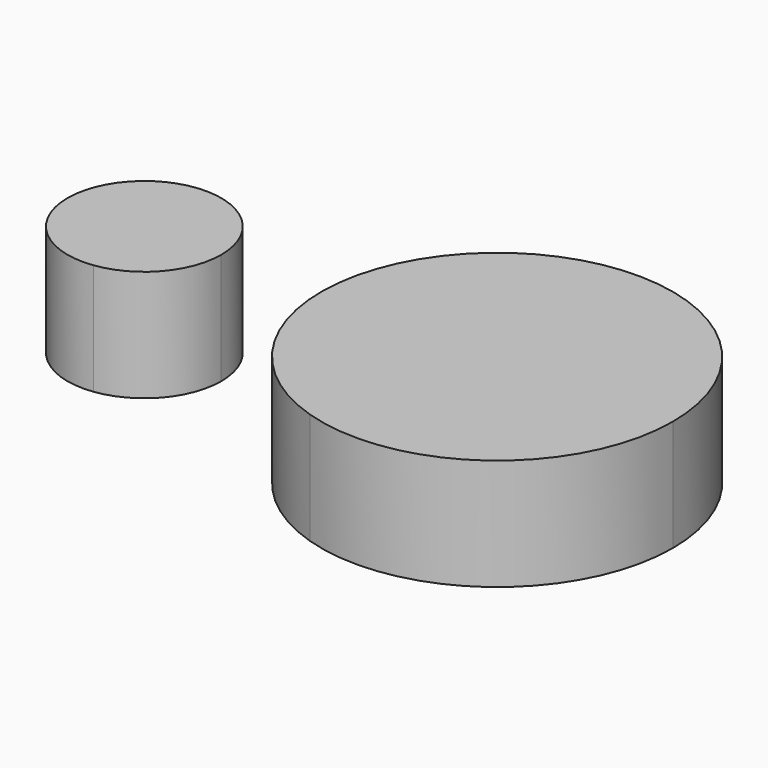
from build123d import *

# Parameters (mm, degrees)
F1_DEPTH = 25.4


with BuildPart() as f1:
    # F0 (on Top) → F1 (new body)
    with BuildSketch(Plane.XY):
        with BuildLine():
            ThreePointArc((-55.21362, -17.377551), (-44.32954, -11.553697), (-39.982982, 0))
            ThreePointArc((-39.982982, 0), (-44.915902, 12.190295), (-56.938247, 17.519478))
            ThreePointArc((-56.938247, 17.519478), (-75.019346, -0.865229), (-55.21362, -17.377551))
        make_face()
        with BuildLine():
            ThreePointArc((63.049, 0), (45.16816, 33.383483), (7.470462, 36.998024))
            ThreePointArc((7.470462, 36.998024), (-17.117838, -1.810307), (10.870338, -38.24289))
            ThreePointArc((10.870338, -38.24289), (46.652453, -32.346296), (63.049, 0))
        make_face()
    extrude(amount=F1_DEPTH)


solid = f1.part
